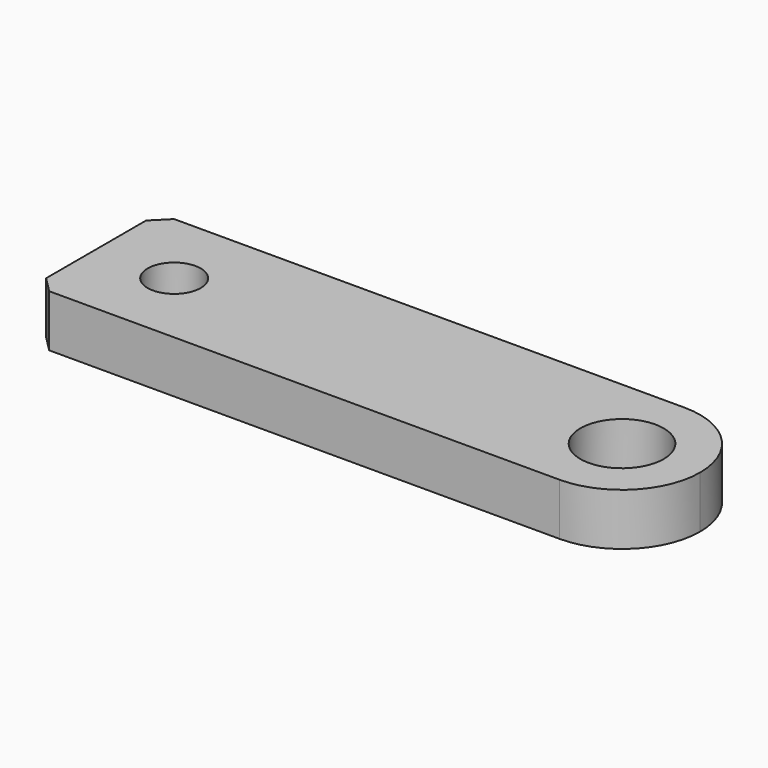
from build123d import *

# Parameters (mm, degrees)
F0_R     = 2.55
F0_R_2   = 4
F1_DEPTH = 5
F2_SIZE  = 1.5


with BuildPart() as f1:
    # F0 (on Top) → F1 (new body)
    with BuildSketch(Plane.XY):
        with BuildLine():
            Line((-29, -7.5), (21.5, -7.5))
            ThreePointArc((21.5, -7.5), (26.803301, -5.303301), (29, 0))
            ThreePointArc((29, 0), (26.803301, 5.303301), (21.5, 7.5))
            Line((21.5, 7.5), (-29, 7.5))
            Line((-29, 7.5), (-29, -7.5))
        make_face()
        with Locations((-21.5, 0)):
            Circle(F0_R, mode=Mode.SUBTRACT)
        with Locations((21.5, 0)):
            Circle(F0_R_2, mode=Mode.SUBTRACT)
    extrude(amount=F1_DEPTH)

    # F2
    f2_edges = [f1.edges().sort_by_distance(p)[0] for p in [
        (-29, 7.5, 2.5),
        (-29, -7.5, 2.5),
    ]]
    chamfer(f2_edges, length=F2_SIZE)


solid = f1.part
